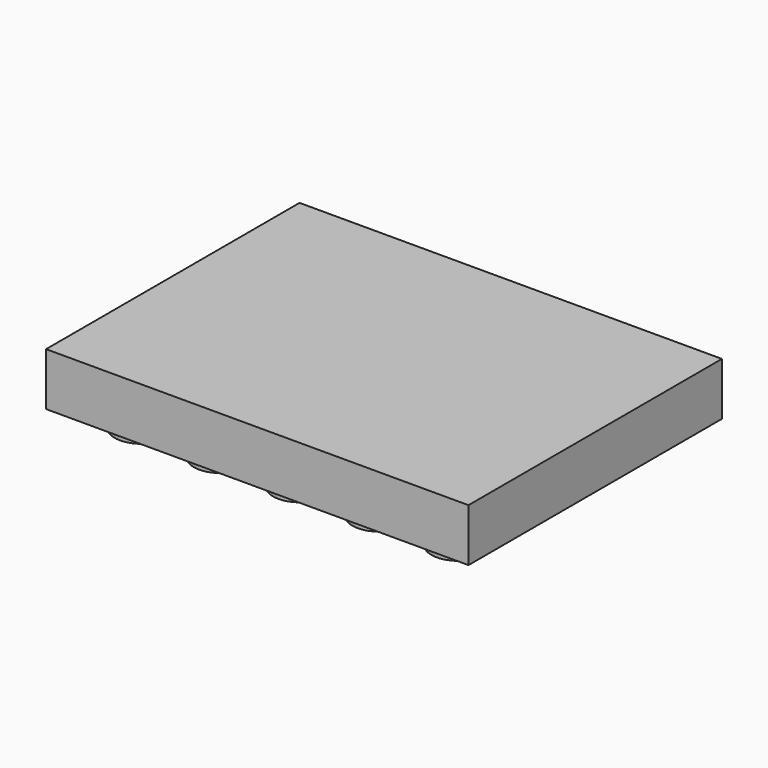
from build123d import *

# Parameters (mm, degrees)
F0_W     = 4
F0_H     = 3
F1_DEPTH = 0.5
F2_R     = 0.25
F3_DEPTH = 0.2


with BuildPart() as f1:
    # F0 (on Top) → F1 (new body)
    with BuildSketch(Plane.XY):
        with Locations((2, 1.5)):
            Rectangle(F0_W, F0_H)
    extrude(amount=F1_DEPTH)

    # F2 (on face) → F3 (join)
    with BuildSketch(Plane(origin=(0, 0, 0), x_dir=(1, 0, 0), z_dir=(0, 0, -1))):
        with Locations((0.5, -0.5)):
            Circle(F2_R)
        with Locations((1.25, -0.5)):
            Circle(F2_R)
        with Locations((2, -0.5)):
            Circle(F2_R)
        with Locations((2.75, -0.5)):
            Circle(F2_R)
        with Locations((3.5, -0.5)):
            Circle(F2_R)
        with Locations((2, -1.15)):
            Circle(F2_R)
        with Locations((2.75, -1.15)):
            Circle(F2_R)
        with Locations((3.5, -1.15)):
            Circle(F2_R)
        with Locations((0.5, -1.15)):
            Circle(F2_R)
        with Locations((1.25, -1.15)):
            Circle(F2_R)
        with Locations((2, -1.8)):
            Circle(F2_R)
        with Locations((2.75, -1.8)):
            Circle(F2_R)
        with Locations((3.5, -1.8)):
            Circle(F2_R)
        with Locations((0.5, -1.8)):
            Circle(F2_R)
        with Locations((1.25, -1.8)):
            Circle(F2_R)
        with Locations((2, -2.45)):
            Circle(F2_R)
        with Locations((2.75, -2.45)):
            Circle(F2_R)
        with Locations((3.5, -2.45)):
            Circle(F2_R)
        with Locations((0.5, -2.45)):
            Circle(F2_R)
        with Locations((1.25, -2.45)):
            Circle(F2_R)
    extrude(amount=F3_DEPTH)


solid = f1.part
